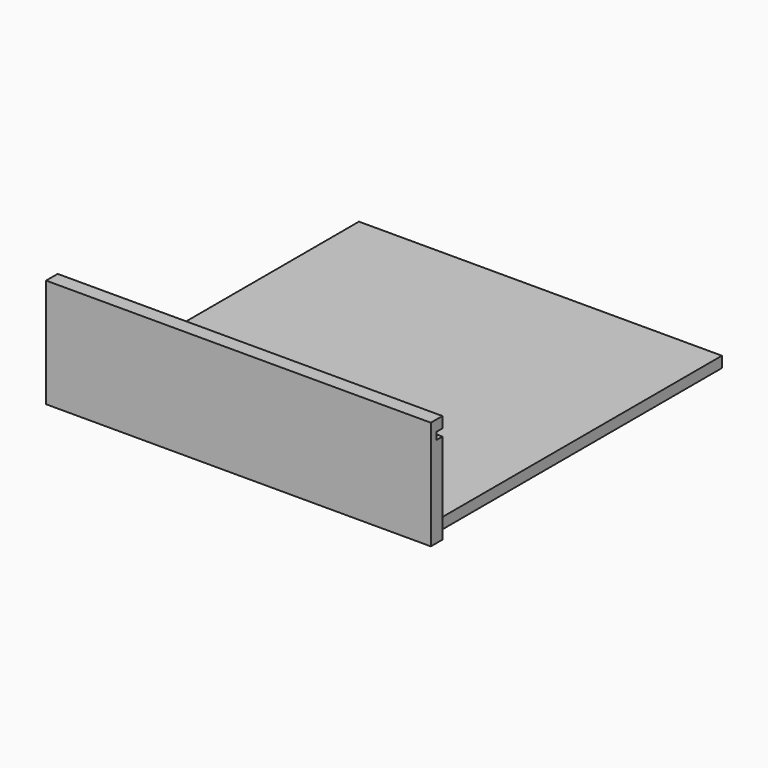
from build123d import *

# Parameters (mm, degrees)
F0_W     = 100
F0_H     = 100
F1_DEPTH = 3
F2_W     = 106
F2_H     = 25
F2_H_2   = 2
F2_H_3   = 3
F3_DEPTH = 4
F4_W     = 106
F4_H     = 2
F5_DEPTH = 2


with BuildPart() as f1:
    # F0 (on Top) → F1 (new body)
    with BuildSketch(Plane.XY):
        Rectangle(F0_W, F0_H)
    extrude(amount=-F1_DEPTH)

    # F2 (on face) → F3 (join)
    with BuildSketch(Plane.XZ.offset(50)):
        with Locations((0, 9.5)):
            Rectangle(F2_W, F2_H)
        with Locations((0, 23)):
            Rectangle(F2_W, F2_H_2)
        with Locations((0, 25.5)):
            Rectangle(F2_W, F2_H_3)
    extrude(amount=F3_DEPTH)

    # F4 (on face) → F5 (cut)
    with BuildSketch(Plane(origin=(0, -50, 0), x_dir=(-1, 0, 0), z_dir=(0, 1, 0))):
        with Locations((0, 23)):
            Rectangle(F4_W, F4_H)
    extrude(amount=-F5_DEPTH, mode=Mode.SUBTRACT)


solid = f1.part
